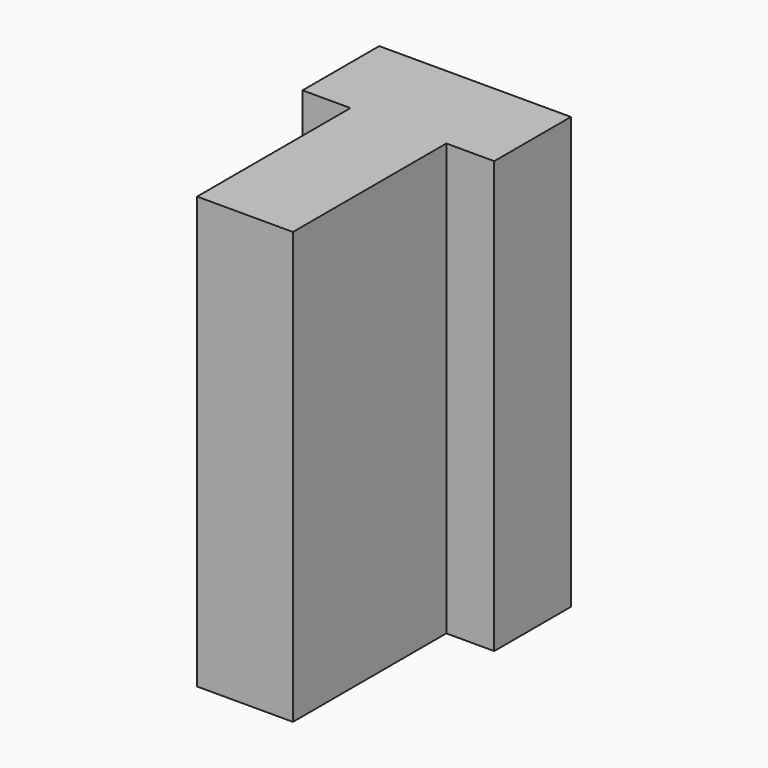
from build123d import *

# Parameters (mm, degrees)
F1_DEPTH = 25.4
F2_DEPTH = 31.75


with BuildPart() as f1:
    # F0 (on Top) → F1 (new body)
    with BuildSketch(Plane.XY):
        Polygon((0, 25.4), (0, 0), (12.7, 0), (12.7, 25.4), (19.05, 25.4), (19.05, 38.1), (-6.35, 38.1), (-6.35, 25.4), align=None)
    extrude(amount=F1_DEPTH)

    # F1_face (on face) → F2 (join)
    with BuildSketch(Plane(origin=(6.35, 22.225, 25.4), x_dir=(1, 0, 0), z_dir=(0, 0, 1))):
        Polygon((-12.7, 3.175), (-6.35, 3.175), (-6.35, -22.225), (6.35, -22.225), (6.35, 3.175), (12.7, 3.175), (12.7, 15.875), (-12.7, 15.875), align=None)
    extrude(amount=F2_DEPTH)


solid = f1.part
